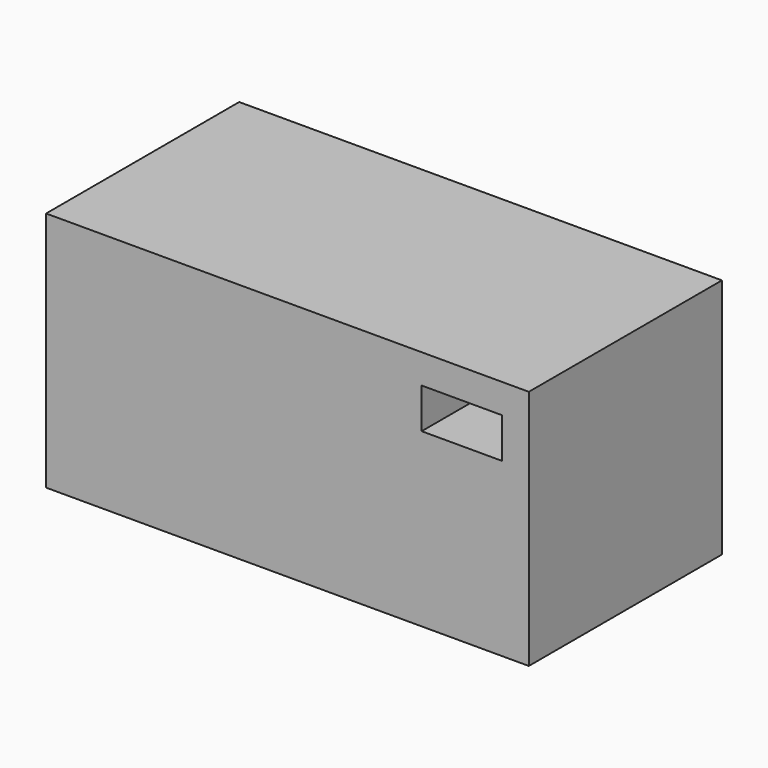
from build123d import *

# Parameters (mm, degrees)
F0_W     = 76.2
F0_H     = 38.1
F1_DEPTH = 19.05
F2_W     = 12.7
F2_H     = 6.35
F3_DEPTH = 38.1


with BuildPart() as f1:
    # F0 (on Front) → F1 (new body, symmetric)
    with BuildSketch(Plane.XZ):
        Rectangle(F0_W, F0_H)
    extrude(amount=F1_DEPTH, both=True)

    # F2 (on Front) → F3 (cut, symmetric)
    with BuildSketch(Plane.XZ):
        with Locations((27.532754, 11.247923)):
            Rectangle(F2_W, F2_H)
    extrude(amount=F3_DEPTH, both=True, mode=Mode.SUBTRACT)


solid = f1.part
